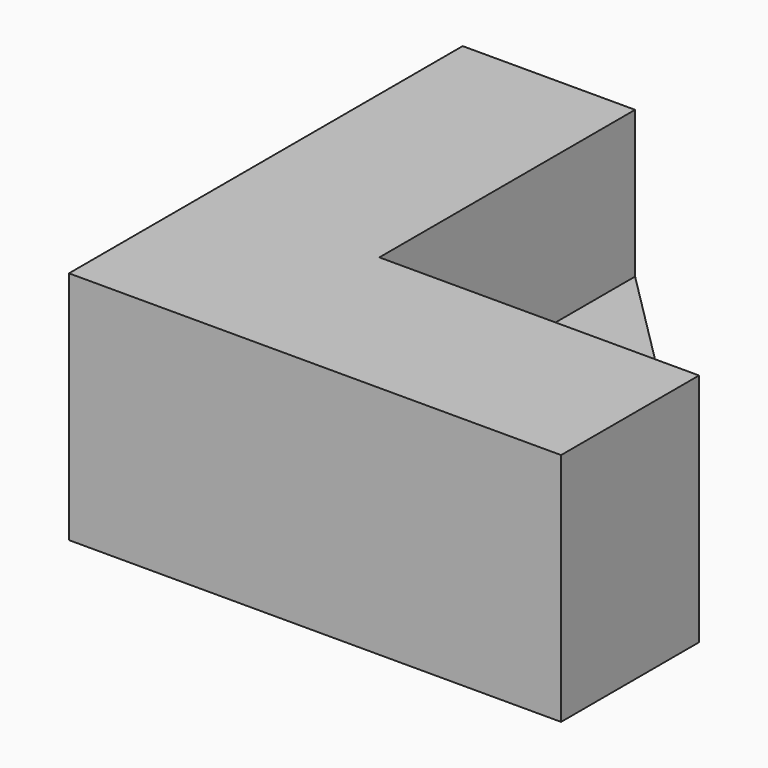
from build123d import *

# Parameters (mm, degrees)
F1_DEPTH = 2.5
F3_DEPTH = 3


with BuildPart() as f1:
    # F0 (on Top) → F1 (new body, symmetric)
    with BuildSketch(Plane.XY):
        Polygon((-62.950388, -47.186095), (-62.950388, -63.944705), (-46.191778, -63.944705), (-46.191778, -58.072362), (-57.078045, -58.072362), (-57.078045, -47.186095), align=None)
    extrude(amount=F1_DEPTH, both=True)

    # F2 (on face) → F3 (join)
    with BuildSketch(Plane(origin=(0, 0, -2.5), x_dir=(1, 0, 0), z_dir=(0, 0, -1))):
        Polygon((-46.191778, 58.072362), (-46.191778, 63.944705), (-62.950388, 63.944705), (-62.950388, 47.186095), (-57.078045, 47.186095), align=None)
    extrude(amount=F3_DEPTH)


solid = f1.part
